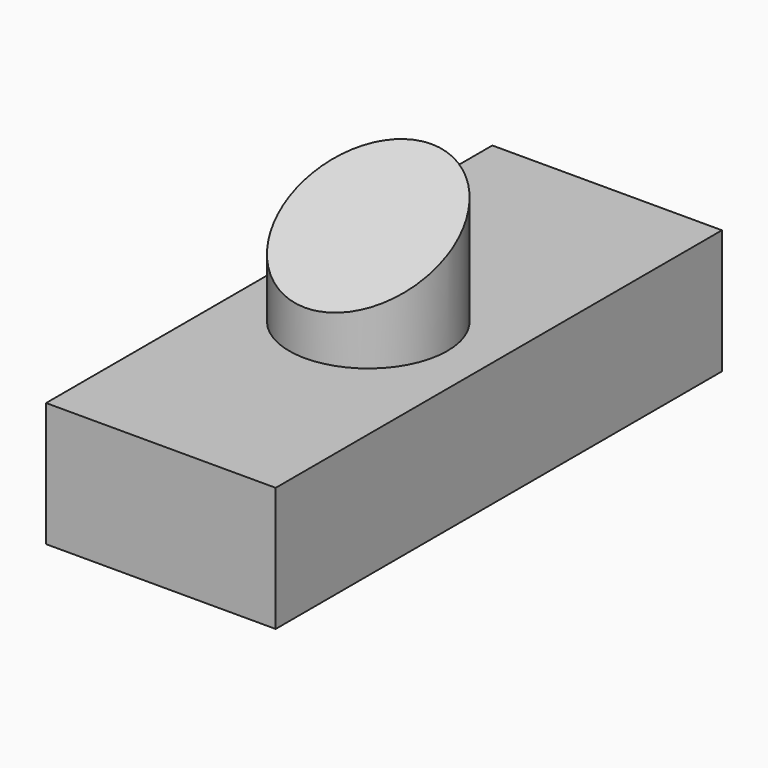
from build123d import *

# Parameters (mm, degrees)
F0_W     = 46.934098
F0_H     = 114.019729
F1_DEPTH = 25.4
F2_R     = 16.172155
F3_DEPTH = 25.4
F5_DEPTH = 46.935098


with BuildPart() as f1:
    # F0 (on Top) → F1 (new body)
    with BuildSketch(Plane.XY):
        with Locations((-23.467049, -4.689149)):
            Rectangle(F0_W, F0_H)
    extrude(amount=F1_DEPTH)

    # F2 (on face) → F3 (join)
    with BuildSketch(Plane.XY.offset(25.4)):
        with Locations((-24.327599, -7.633943)):
            Circle(F2_R)
    extrude(amount=F3_DEPTH)

    # F4 (on face) → F5 (cut, through all)
    with BuildSketch(Plane(origin=(-46.934098, 0, 0), x_dir=(0, -1, 0), z_dir=(-1, 0, 0))):
        Polygon((23.806098, 50.8), (-8.538212, 50.8), (23.806098, 34.50444), align=None)
    extrude(amount=-F5_DEPTH, mode=Mode.SUBTRACT)


solid = f1.part
